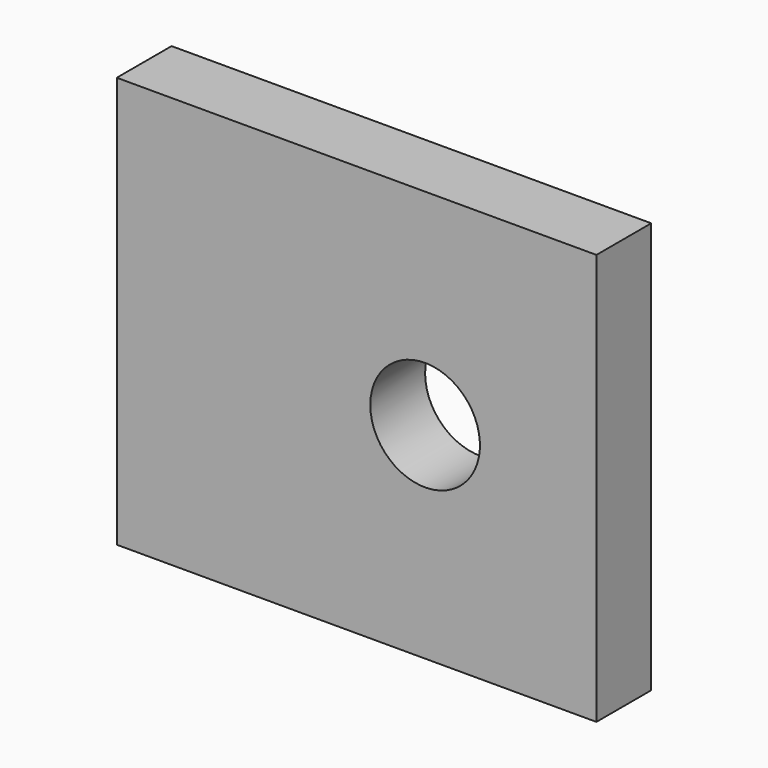
from build123d import *

# Parameters (mm, degrees)
F0_W     = 88.9
F0_H     = 76.2
F1_DEPTH = 12.7
F2_D     = 20.32


with BuildPart() as f1:
    # F0 (on Front) → F1 (new body)
    with BuildSketch(Plane.XZ):
        Rectangle(F0_W, F0_H)
    extrude(amount=F1_DEPTH)

    # F2 (through all)
    with Locations(Plane(origin=(0, 0, 0), x_dir=(1, 0, 0), z_dir=(0, 1, 0))):
        with Locations((12.7, 0)):
            Hole(F2_D / 2)


solid = f1.part
